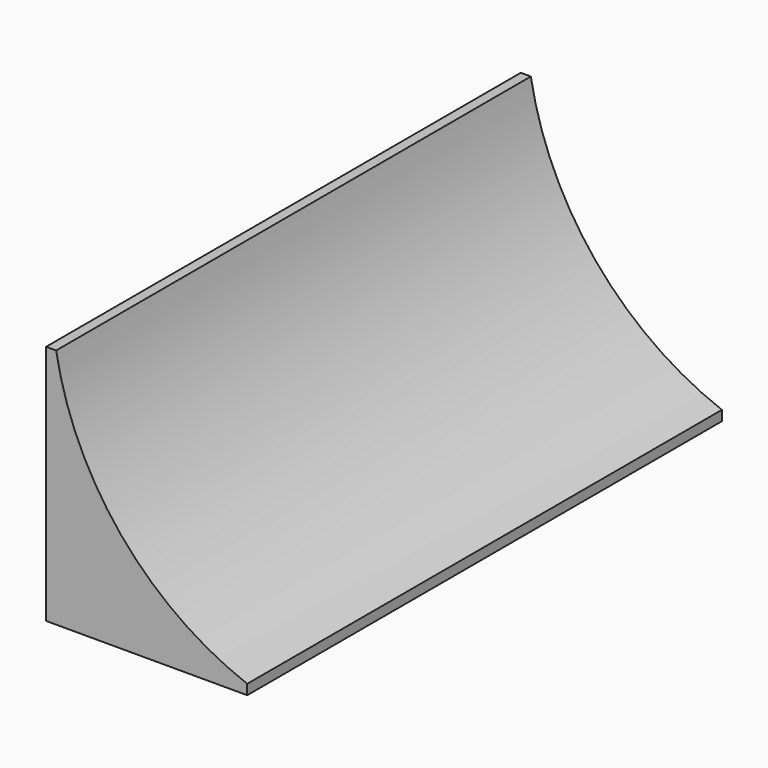
from build123d import *

# Parameters (mm, degrees)
F1_DEPTH = 147.5
F2_T     = -2


with BuildPart() as f1:
    # F0 (on Front) → F1 (new body, symmetric)
    with BuildSketch(Plane.XZ):
        with BuildLine():
            Line((-95, 120), (-100, 120))
            Line((-100, 120), (-100, 0))
            Line((-100, 0), (0, 0))
            Line((0, 0), (0, 5))
            ThreePointArc((0, 5), (-62.8081002421, 49.8541780609), (-95, 120))
        make_face()
    extrude(amount=F1_DEPTH, both=True)

    # F2
    f2_openings = [f1.faces().sort_by_distance(p)[0] for p in [
        (-50, 0, 0),
    ]]
    offset(amount=F2_T, openings=f2_openings)


solid = f1.part
